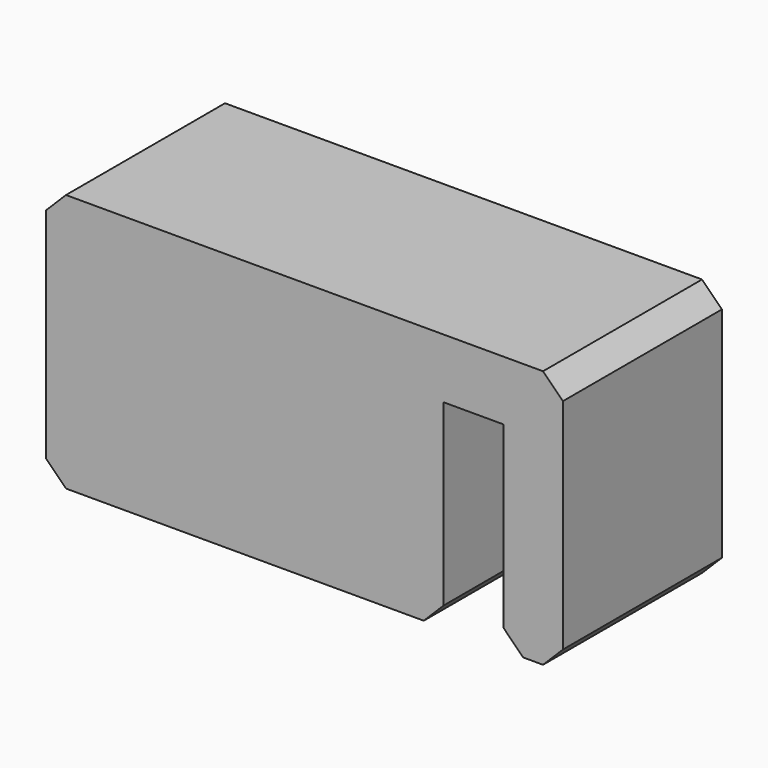
from build123d import *

# Parameters (mm, degrees)
CYLINDER001_R     = 2.1
CYLINDER001_DEPTH = 10
BOX002_W          = 9
BOX002_H          = 8
BOX002_DEPTH      = 10
BOX001_W          = 3
BOX001_H          = 12
BOX001_DEPTH      = 11
CYLINDER_R        = 2
CYLINDER_DEPTH    = 10
BOX_W             = 26
BOX_H             = 13
BOX_DEPTH         = 10
BOX_ROLL_ANGLE    = 90
CHAMFER_SIZE      = 1
CHAMFER001_SIZE   = 1
CHAMFER002_SIZE   = 1
CHAMFER003_SIZE   = 1
CHAMFER004_SIZE   = 1


with BuildPart() as cylinder001:
    # Cylinder001 → Cylinder001 (new body)
    with BuildSketch(Plane(origin=(5, -5, -5), x_dir=(1, 0, 0), z_dir=(0, 0, 1))):
        Circle(CYLINDER001_R)
    extrude(amount=CYLINDER001_DEPTH)


with BuildPart() as cube002:
    # Box002 → Box002 (new body)
    with BuildSketch(Plane(origin=(9, -9, -1), x_dir=(1, 0, 0), z_dir=(0, 0, 1))):
        with Locations((4.5, 4)):
            Rectangle(BOX002_W, BOX002_H)
    extrude(amount=BOX002_DEPTH)


with BuildPart() as cube001:
    # Box001 → Box001 (new body)
    with BuildSketch(Plane(origin=(20, -11, -1), x_dir=(1, 0, 0), z_dir=(0, 0, 1))):
        with Locations((1.5, 6)):
            Rectangle(BOX001_W, BOX001_H)
    extrude(amount=BOX001_DEPTH)


with BuildPart() as cylinder:
    # Cylinder → Cylinder (new body)
    with BuildSketch(Plane(origin=(5, -5, -5), x_dir=(1, 0, 0), z_dir=(0, 0, 1))):
        Circle(CYLINDER_R)
    extrude(amount=CYLINDER_DEPTH)


with BuildPart() as cut003:
    # Box → Box (new body)
    with BuildSketch(Plane.XY):
        with Locations((13, 6.5)):
            Rectangle(BOX_W, BOX_H)
    extrude(amount=BOX_DEPTH)


with BuildPart() as cut003_1:
    # Box roll: moved
    add(cut003.part.rotate(Axis((0, 0, 0), (1, 0, 0)), BOX_ROLL_ANGLE))


with BuildPart() as cut003_2:
    # Box placement: moved
    add(cut003_1.part)

    # Cut: cut Cylinder
    add(cylinder.part, mode=Mode.SUBTRACT)

    # Cut001: cut Cube001
    add(cube001.part, mode=Mode.SUBTRACT)

    # Chamfer
    chamfer_edges = [cut003_2.edges().sort_by_distance(p)[0] for p in [
        (0, -5, 0),
        (23, -5, 0),
    ]]
    chamfer(chamfer_edges, length=CHAMFER_SIZE)

    # Chamfer001
    chamfer001_edges = [cut003_2.edges().sort_by_distance(p)[0] for p in [
        (20, -5, 0),
    ]]
    chamfer(chamfer001_edges, length=CHAMFER001_SIZE)

    # Chamfer002
    chamfer002_edges = [cut003_2.edges().sort_by_distance(p)[0] for p in [
        (26, -5, 0),
    ]]
    chamfer(chamfer002_edges, length=CHAMFER002_SIZE)

    # Chamfer003
    chamfer003_edges = [cut003_2.edges().sort_by_distance(p)[0] for p in [
        (0, -5, 13),
    ]]
    chamfer(chamfer003_edges, length=CHAMFER003_SIZE)

    # Chamfer004
    chamfer004_edges = [cut003_2.edges().sort_by_distance(p)[0] for p in [
        (26, -5, 13),
    ]]
    chamfer(chamfer004_edges, length=CHAMFER004_SIZE)

    # Cut002: cut Cube002
    add(cube002.part, mode=Mode.SUBTRACT)

    # Cut003: cut Cylinder001
    add(cylinder001.part, mode=Mode.SUBTRACT)


solid = cut003_2.part
